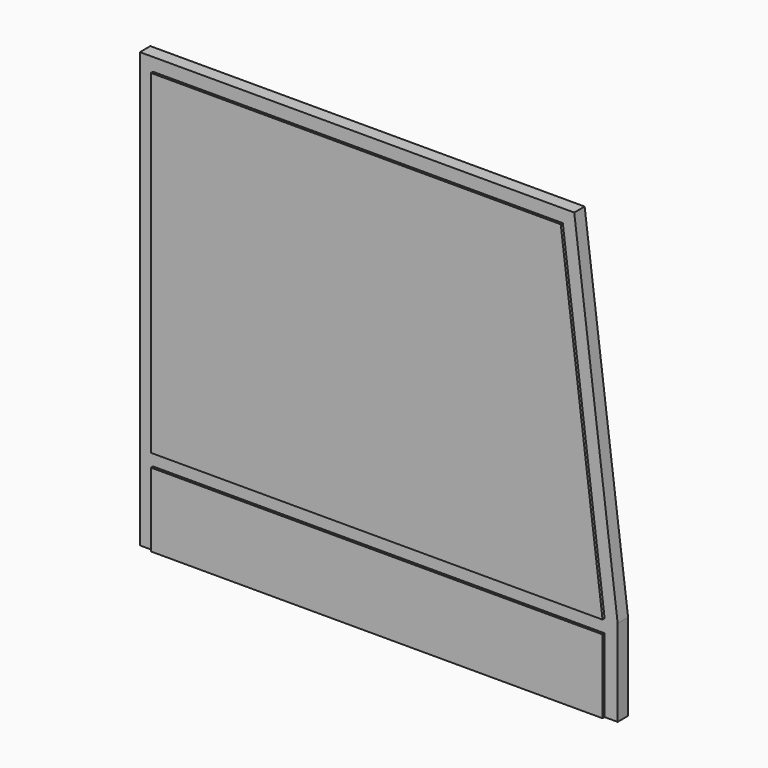
from build123d import *

# Parameters (mm, degrees)
F1_DEPTH = 18
F0_W     = 520
F0_H     = 85
F2_DEPTH = 15


with BuildPart() as f1:
    # F0 (on Front) → F1 (new body)
    with BuildSketch(Plane.XZ):
        Polygon((-260, -150), (260, -150), (211.875, 235), (-260, 235), align=None)
    extrude(amount=F1_DEPTH)



with BuildPart() as f1b:
    # F0 (on Front) → F1, piece 2 (new body)
    with BuildSketch(Plane.XZ):
        with Locations((0, -207.5)):
            Rectangle(F0_W, F0_H)
    extrude(amount=F1_DEPTH)


with BuildPart() as f1_1:
    add(f1.part)

    add(f1b.part)  # F2 merges F1b
    # F0 (on Front) → F2 (join)
    with BuildSketch(Plane.XZ):
        Polygon((275, -150), (225, 250), (-275, 250), (-275, -250), (-260, -250), (-260, -165), (260, -165), (260, -250), (275, -250), align=None)
        Polygon((211.875, 235), (260, -150), (-260, -150), (-260, 235), align=None, mode=Mode.SUBTRACT)
    extrude(amount=F2_DEPTH)


solid = f1_1.part
